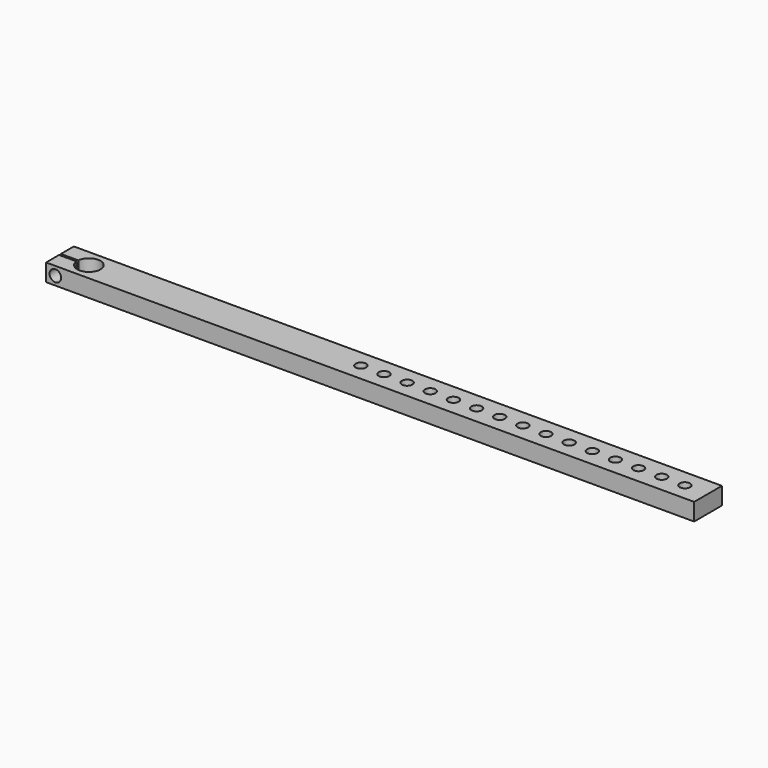
from build123d import *

# Parameters (mm, degrees)
F0_W     = 711.2
F0_H     = 38.1
F1_DEPTH = 19.05
F3_D     = 11.50874
F5_D     = 25.4508
F6_W     = 6.5565072059
F6_H     = 2.54
F7_DEPTH = 19.051
F9_D     = 12.7


with BuildPart() as f1:
    # F0 (on Top) → F1 (new body)
    with BuildSketch(Plane.XY):
        with Locations((-168.5031287369, 0)):
            Rectangle(F0_W, F0_H)
    extrude(amount=F1_DEPTH)

    # F3 (through all)
    with Locations(Plane.XY.offset(19.05)):
        with Locations((-143.1031287369, 0), (-117.7031287369, 0), (-92.3031287369, 0), (-66.9031287369, 0), (-16.1031287369, 0), (-41.5031287369, 0), (9.2968712631, 0), (34.6968712631, 0), (60.0968712631, 0), (85.4968712631, 0), (-168.5031287369, 0), (-193.9031287369, 0), (110.8968712631, 0), (136.2968712631, 0), (161.6968712631, 0)):
            Hole(F3_D / 2)

    # F5 (through all)
    with Locations(Plane.XY.offset(19.05)):
        with Locations((-492.3531287369, 0)):
            Hole(F5_D / 2)

    # F6 (on face) → F7 (cut, through all)
    with BuildSketch(Plane.XY.offset(19.05)):
        with Locations((-527.3813823399, 0)):
            Rectangle(F6_W, F6_H)
        with BuildLine():
            Line((-494.1921649058, 1.27), (-505.0149968913, 1.27))
            ThreePointArc((-505.0149968913, 1.27), (-505.0785287369, 0), (-505.0149968913, -1.27))
            Line((-505.0149968913, -1.27), (-494.1921649058, -1.27))
            Line((-494.1921649058, -1.27), (-494.1921649058, 1.27))
        make_face()
        with BuildLine():
            Line((-505.0149968913, 1.27), (-524.1031287369, 1.27))
            Line((-524.1031287369, 1.27), (-524.1031287369, -1.27))
            Line((-524.1031287369, -1.27), (-505.0149968913, -1.27))
            ThreePointArc((-505.0149968913, -1.27), (-505.0785287369, 0), (-505.0149968913, 1.27))
        make_face()
    extrude(amount=-F7_DEPTH, mode=Mode.SUBTRACT)

    # F9 (through all)
    with Locations(Plane(origin=(0, 19.05, 0), x_dir=(-1, 0, 0), z_dir=(0, 1, 0))):
        with Locations((513.9431287369, 9.525)):
            Hole(F9_D / 2)


solid = f1.part
